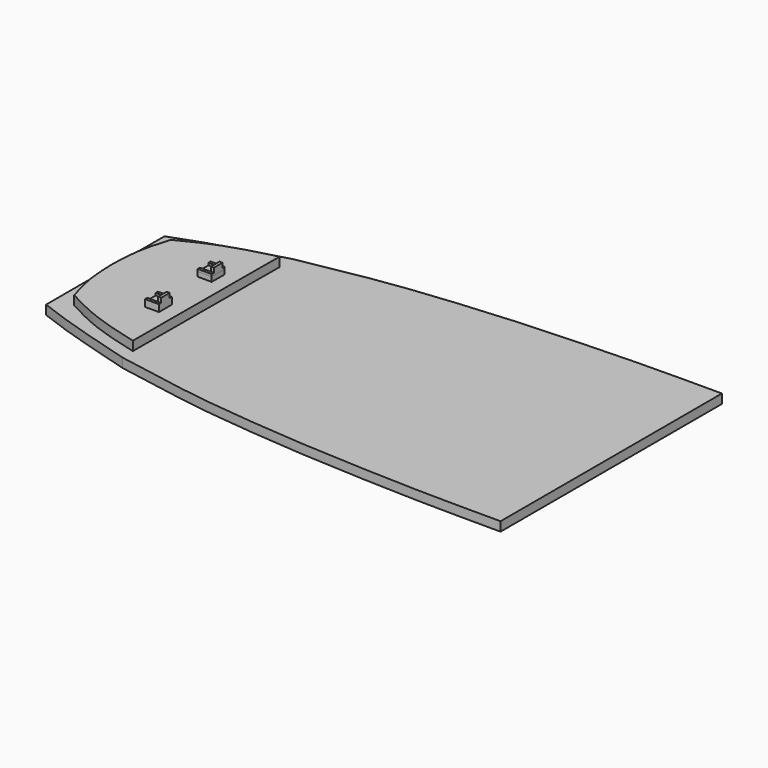
from build123d import *

# Parameters (mm, degrees)
F1_DEPTH = 1.016
F3_DEPTH = 1.016
F4_W     = 1.5461742878
F4_H     = 1.7800107598
F5_DEPTH = 0.508
F6_W     = 0.3297105432
F6_H     = 1.169860363
F7_DEPTH = 0.762
F8_DEPTH = 0.254


with BuildPart() as f1:
    # F0 (on Top) → F1 (new body)
    with BuildSketch(Plane.XY):
        with BuildLine():
            add(Edge.make_bspline(
                [(-83.0695168812, 65.0185172639), (-81.2073282212, 65.3529949208), (-77.5617974949, 66.0077881765), (-72.8140528821, 66.8662404849), (-62.7985653809, 67.8312138759), (-56.6385059142, 68.1307697908), (-49.0098225635, 68.4964166124), (-41.736601245, 68.5281022888), (-38.5453496012, 68.5228027941)],
                knots=[0, 0, 0, 0, 0.1161322033, 0.2273472739, 0.3832821232, 0.5081069087, 0.6553322951, 0.7776776585, 0.7776776585, 0.7776776585, 0.7776776585], degree=3))
            add(Edge.make_bspline(
                [(-83.0695168812, 65.0185172639), (-84.009305045, 64.7533696868), (-85.8864659081, 64.2237560209), (-88.6669817794, 63.3740574177), (-91.5588504625, 62.4778286964), (-93.4526108955, 61.7689145327), (-94.4005846977, 61.4140480757)],
                knots=[0, 0, 0, 0, 0.2478868969, 0.4951366694, 0.7472767924, 1, 1, 1, 1], degree=3))
            Line((-94.4005846977, 61.4140480757), (-94.4005846977, 45.0842863971))
            add(Edge.make_bspline(
                [(-83.0695168812, 41.4798172089), (-84.009305045, 41.7449647859), (-85.8864659081, 42.2745784519), (-88.6669817794, 43.1242770551), (-91.5588504625, 44.0205057763), (-93.4526108955, 44.7294199401), (-94.4005846977, 45.0842863971)],
                knots=[0, 0, 0, 0, 0.2478868969, 0.4951366694, 0.7472767924, 1, 1, 1, 1], degree=3))
            add(Edge.make_bspline(
                [(-83.0695168812, 41.4798172089), (-81.2073282212, 41.1453395519), (-77.5617974949, 40.4905462962), (-72.8140528821, 39.6320939878), (-62.7985653809, 38.6671205968), (-56.6385059142, 38.367564682), (-49.0098225635, 38.0019178604), (-41.736601245, 37.970232184), (-38.5453496012, 37.9755316787)],
                knots=[0, 0, 0, 0, 0.1161322033, 0.2273472739, 0.3832821232, 0.5081069087, 0.6553322951, 0.7776776585, 0.7776776585, 0.7776776585, 0.7776776585], degree=3))
            Line((-38.5453496012, 37.9755316787), (-38.5453496012, 68.5228027941))
        make_face()
    extrude(amount=F1_DEPTH)

    # F2 (on face) → F3 (join)
    with BuildSketch(Plane.XY.offset(1.016)):
        with BuildLine():
            Line((-83.1365770774, 42.9710840408), (-83.0574043404, 63.1276703968))
            add(Edge.make_bspline(
                [(-83.0574043404, 63.1276703968), (-84.0360073876, 62.8789505229), (-86.0237511963, 62.3737493681), (-89.1074437373, 61.3565198736), (-91.2456775332, 60.2747276068), (-92.3467808204, 59.7176486647)],
                knots=[0, 0, 0, 0, 0.319895777, 0.6497740345, 1, 1, 1, 1], degree=3))
            add(Edge.make_bspline(
                [(-92.3467808204, 59.7176486647), (-92.5252253831, 59.1278593609), (-92.8969492909, 57.8992493015), (-93.3515589868, 55.7309907883), (-93.413163937, 53.9980307219), (-93.4454426169, 53.0900247395)],
                knots=[0, 0, 0, 0, 0.3053144509, 0.6360108656, 1, 1, 1, 1], degree=3))
            add(Edge.make_bspline(
                [(-92.3988789961, 46.4539746173), (-92.572684876, 47.0451475201), (-92.9347457867, 48.2766398013), (-93.3723083812, 50.4484026639), (-93.4202979076, 52.1817932047), (-93.4454426169, 53.0900247395)],
                knots=[0, 0, 0, 0, 0.3053144509, 0.6360108656, 1, 1, 1, 1], degree=3))
            add(Edge.make_bspline(
                [(-83.1365770774, 42.9710840408), (-84.1131960732, 43.2274838005), (-86.0969098659, 43.7482843808), (-89.1725162602, 44.7897068882), (-91.3021859002, 45.8882629855), (-92.3988789961, 46.4539746173)],
                knots=[0, 0, 0, 0, 0.319895777, 0.6497740345, 1, 1, 1, 1], degree=3))
        make_face()
    extrude(amount=F3_DEPTH)

    # F4 (on face) → F5 (join)
    with BuildSketch(Plane.XY.offset(2.032)):
        with Locations((-85.4812115431, 49.4383238256)):
            Rectangle(F4_W, F4_H)
        Polygon((-86.2188425351, 57.5750998045), (-86.2328256717, 55.7951439688), (-84.6866990927, 55.7829977691), (-84.6727159562, 57.5629536048), align=None)
    extrude(amount=F5_DEPTH)

    # F6 (on face) → F7 (join)
    with BuildSketch(Plane.XY.offset(2.54)):
        with Locations((-84.8346985877, 56.6699057817)):
            Rectangle(F6_W, F6_H)
        with Locations((-84.8729796708, 49.4383238256)):
            Rectangle(F6_W, F6_H)
    extrude(amount=F7_DEPTH)

    # F6 (on face) → F8 (join)
    with BuildSketch(Plane.XY.offset(2.54)):
        Polygon((-86.2160176039, 57.2548359632), (-84.9995538592, 57.2548359632), (-84.6698433161, 57.2548359632), (-84.6698433161, 57.5599111617), (-86.2160176039, 57.5599111617), align=None)
        Polygon((-84.9995538592, 56.0849756002), (-86.2160176039, 56.0849756002), (-86.2160176039, 55.7799004018), (-84.6698433161, 55.7799004018), (-84.6698433161, 56.0849756002), align=None)
        Polygon((-86.254298687, 50.3283292055), (-86.254298687, 50.0232540071), (-85.0378349423, 50.0232540071), (-84.7081243992, 50.0232540071), (-84.7081243992, 50.3283292055), align=None)
        Polygon((-85.0378349423, 48.8533936441), (-86.254298687, 48.8533936441), (-86.254298687, 48.5483184457), (-84.7081243992, 48.5483184457), (-84.7081243992, 48.8533936441), align=None)
    extrude(amount=F8_DEPTH)


solid = f1.part
